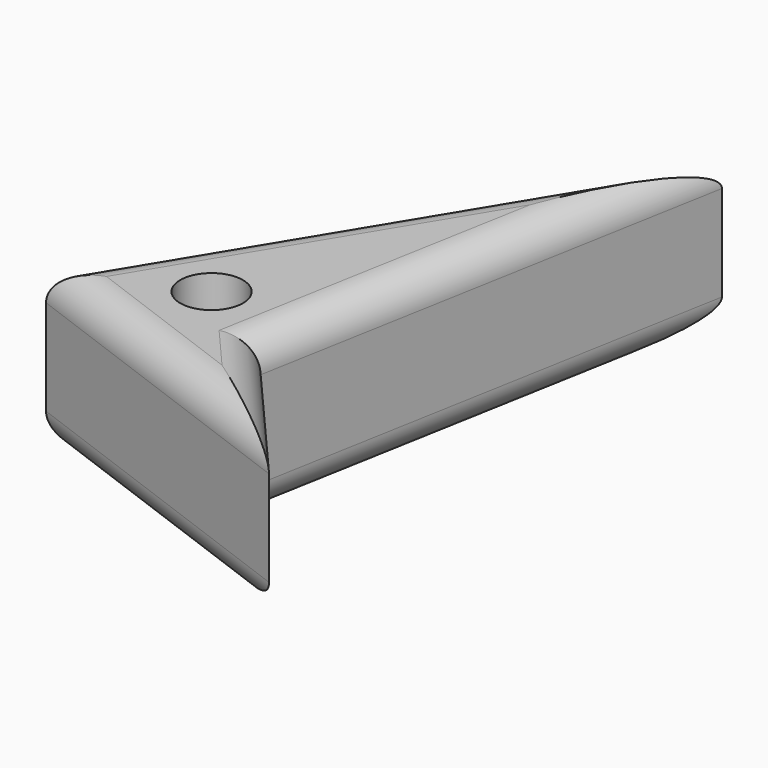
from build123d import *

# Parameters (mm, degrees)
F1_DEPTH = 12.7
F2_R     = 2.54
F3_R     = 2.54
F4_R     = 2.5016114836
F5_DEPTH = 12.954


with BuildPart() as f1:
    # F0 (on Top) → F1 (new body)
    with BuildSketch(Plane.XY):
        Polygon((-2.0137657411, 54.22963202), (-25.2730008215, 15.8750005066), (-8.7629994377, 16.6370011866), align=None)
        Polygon((-8.7629994377, 16.6370011866), (-25.2730008215, 15.8750005066), (0, 6.5225157887), align=None)
    extrude(amount=F1_DEPTH)

    # F2
    f2_edges = [f1.edges().sort_by_distance(p)[0] for p in [
        (-13.643383, 35.052316, 12.7),
        (-12.6365, 11.198758, 12.7),
        (-4.3815, 11.579758, 12.7),
        (-5.388383, 35.433317, 12.7),
    ]]
    fillet(f2_edges, radius=F2_R)

    # F3
    f3_edges = [f1.edges().sort_by_distance(p)[0] for p in [
        (-13.643383, 35.052316, 0),
        (-12.6365, 11.198758, 0),
        (-4.3815, 11.579758, 0),
        (-5.388383, 35.433317, 0),
    ]]
    fillet(f3_edges, radius=F3_R)

    # F4 (on face) → F5 (cut)
    with BuildSketch(Plane.XY.offset(12.7)):
        with Locations((-15.1129998267, 19.6850001812)):
            Circle(F4_R)
    extrude(amount=-F5_DEPTH, mode=Mode.SUBTRACT)


solid = f1.part
